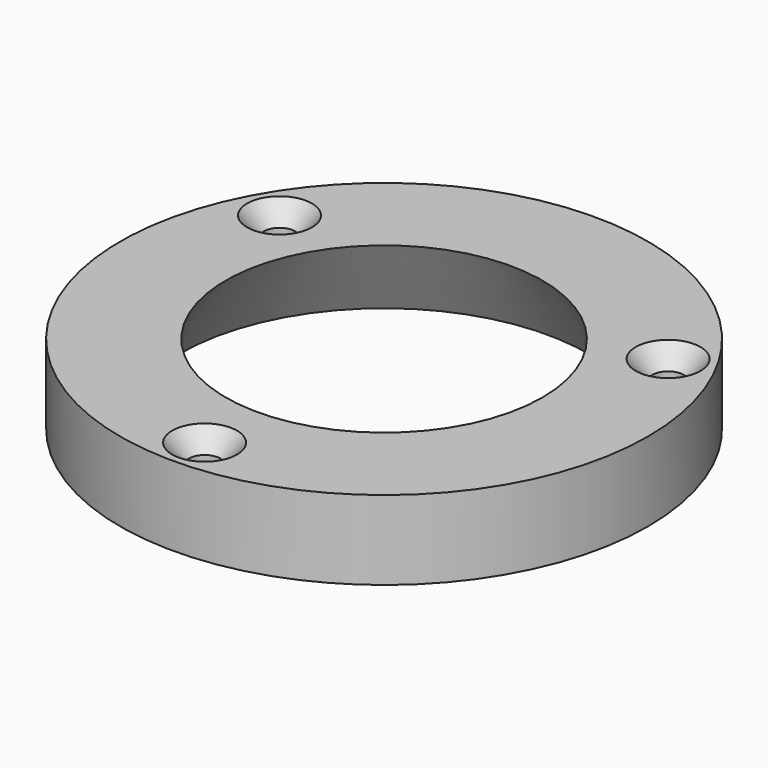
from build123d import *

# Parameters (mm, degrees)
F0_R           = 31.75
F1_DEPTH       = 9.525
F2_R           = 19.05
F3_DEPTH       = 25.4
F3_TAPER       = -30
F5_D           = 3.7973
F5_CSINK_D     = 7.7978
F5_CSINK_ANGLE = 82


with BuildPart() as f1:
    # F0 (on Top) → F1 (new body)
    with BuildSketch(Plane.XY):
        Circle(F0_R)
    extrude(amount=F1_DEPTH)

    # F2 (on face) → F3 (cut)
    with BuildSketch(Plane.XY.offset(9.525)):
        Circle(F2_R)
    extrude(amount=-F3_DEPTH, taper=F3_TAPER, mode=Mode.SUBTRACT)

    # F5 (through all)
    with Locations(Plane.XY.offset(9.525)):
        with Locations((-23.3718605846, 13.49375), (23.3718605846, 13.49375), (0, -26.9875)):
            CounterSinkHole(F5_D / 2, F5_CSINK_D / 2, counter_sink_angle=F5_CSINK_ANGLE)


solid = f1.part
